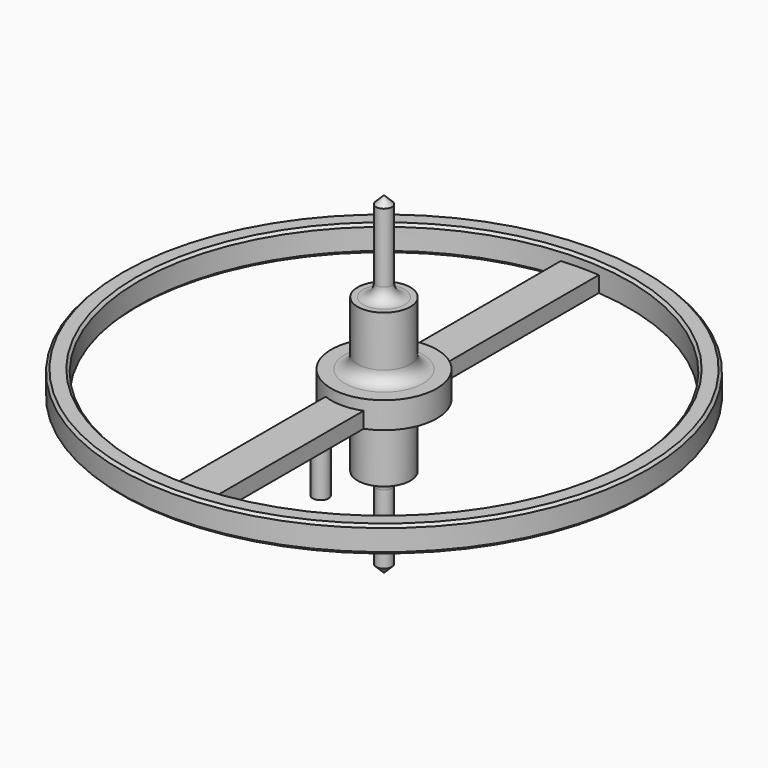
from build123d import *

# Parameters (mm, degrees)
F0_R          = 5
F0_R_2        = 4.65
F1_DEPTH      = 0.5
F0_R_3        = 1
F0_R_4        = 0.5
F0_R_5        = 0.15
F2_DEPTH      = 1.7
F2_DEPTH_BACK = 1.2
F3_DEPTH      = 3.4
F3_DEPTH_BACK = 2.9
F5_DEPTH      = 0.3
F6_R          = 0.2414213562
F7_SIZE       = 0.05
F8_SIZE       = 0.15
F9_R          = 0.15
F10_DEPTH     = 1


with BuildPart() as f1:
    # F0 (on Top) → F1 (new body)
    with BuildSketch(Plane.XY):
        Circle(F0_R)
        Circle(F0_R_2, mode=Mode.SUBTRACT)
    extrude(amount=F1_DEPTH)



with BuildPart() as f1b:
    # F0 (on Top) → F1, piece 2 (new body)
    with BuildSketch(Plane.XY):
        Circle(F0_R_3)
        Circle(F0_R_4, mode=Mode.SUBTRACT)
    extrude(amount=F1_DEPTH)

    # F0 (on Top) → F2 (join, two sides)
    with BuildSketch(Plane.XY) as f2_sk:
        Circle(F0_R_4)
        Circle(F0_R_5, mode=Mode.SUBTRACT)
    extrude(amount=F2_DEPTH)
    extrude(f2_sk.sketch, amount=-F2_DEPTH_BACK)

    # F0 (on Top) → F3 (join, two sides)
    with BuildSketch(Plane.XY) as f3_sk:
        Circle(F0_R_5)
    extrude(amount=F3_DEPTH)
    extrude(f3_sk.sketch, amount=-F3_DEPTH_BACK)


with BuildPart() as f1_1:
    add(f1.part)

    add(f1b.part)  # F5 merges F1b
    # F4 (on face) → F5 (join)
    with BuildSketch(Plane.XY):
        with BuildLine():
            Line((-0.3600120544, -0.9329476516), (-0.3600120544, -4.6360426358))
            ThreePointArc((-0.3600120544, -4.6360426358), (0, -4.65), (0.3600120544, -4.6360426358))
            Line((0.3600120544, -4.6360426358), (0.3600120544, -0.9329476516))
            ThreePointArc((0.3600120544, -0.9329476516), (0, -1), (-0.3600120544, -0.9329476516))
        make_face()
        with BuildLine():
            ThreePointArc((0.3600120544, 4.6360426358), (0, 4.65), (-0.3600120544, 4.6360426358))
            Line((-0.3600120544, 4.6360426358), (-0.3600120544, 0.9329476516))
            ThreePointArc((-0.3600120544, 0.9329476516), (0, 1), (0.3600120544, 0.9329476516))
            Line((0.3600120544, 0.9329476516), (0.3600120544, 4.6360426358))
        make_face()
    extrude(amount=F5_DEPTH)

    # F6
    f6_edges = [f1_1.edges().sort_by_distance(p)[0] for p in [
        (-0.5, 0, 0.5),
        (-0.5, 0, 0),
        (-0.15, 0, -1.2),
        (-0.15, 0, 1.7),
    ]]
    fillet(f6_edges, radius=F6_R)

    # F7
    f7_edges = [f1_1.edges().sort_by_distance(p)[0] for p in [
        (-5, 0, 0.5),
        (-4.65, 0, 0.5),
        (-4.65, 0, 0),
        (-5, 0, 0),
    ]]
    chamfer(f7_edges, length=F7_SIZE)

    # F8
    f8_edges = [f1_1.edges().sort_by_distance(p)[0] for p in [
        (-0.15, 0, 3.4),
        (-0.15, 0, -2.9),
    ]]
    chamfer(f8_edges, length=F8_SIZE)

    # F9 (on face) → F10 (join)
    with BuildSketch(Plane.XY):
        with Locations((0, -1.5)):
            Circle(F9_R)
    extrude(amount=-F10_DEPTH)


solid = f1_1.part
